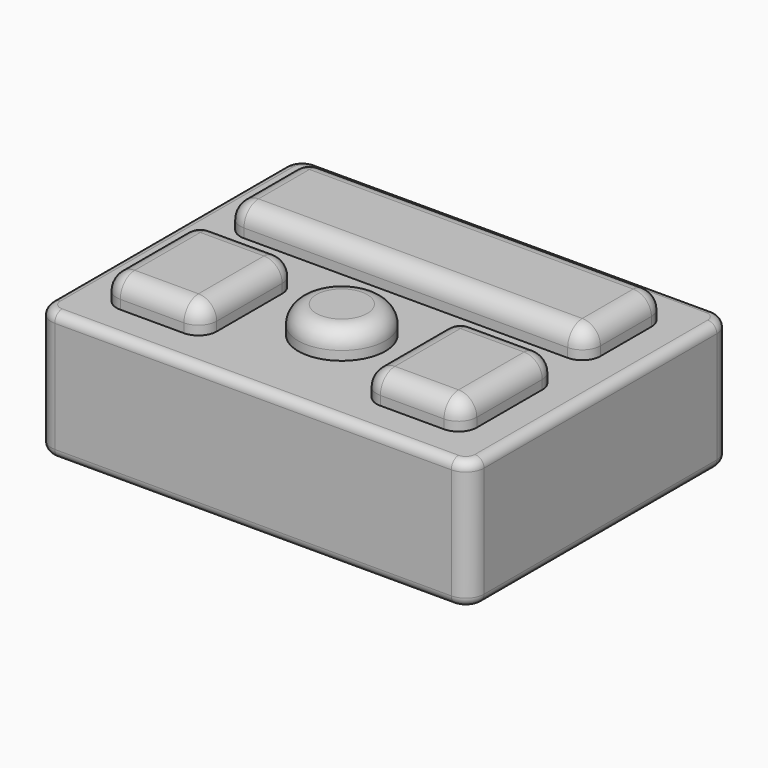
from build123d import *

# Parameters (mm, degrees)
F0_W     = 238
F0_H     = 180
F1_DEPTH = 86
F2_W     = 238
F2_H     = 180
F2_W_2   = 55
F2_H_2   = 65
F2_R     = 24
F2_W_3   = 198
F2_H_3   = 55
F3_DEPTH = 15
F4_R     = 10
F5_R     = 10
F6_R     = 5
F7_R     = 7.5
F8_DEPTH = 50


with BuildPart() as f1:
    # F0 (on Top) → F1 (new body)
    with BuildSketch(Plane.XY):
        Rectangle(F0_W, F0_H)
    extrude(amount=F1_DEPTH)

    # F2 (on face) → F3 (cut)
    with BuildSketch(Plane.XY.offset(86)):
        Rectangle(F2_W, F2_H)
        with Locations((-71.5, -37.5)):
            Rectangle(F2_W_2, F2_H_2, mode=Mode.SUBTRACT)
        with Locations((0, -29)):
            Circle(F2_R, mode=Mode.SUBTRACT)
        with Locations((71.5, -37.5)):
            Rectangle(F2_W_2, F2_H_2, mode=Mode.SUBTRACT)
        with Locations((0, 42.5)):
            Rectangle(F2_W_3, F2_H_3, mode=Mode.SUBTRACT)
    extrude(amount=-F3_DEPTH, mode=Mode.SUBTRACT)

    # F4
    f4_edges = [f1.edges().sort_by_distance(p)[0] for p in [
        (-119, -90, 35.5),
        (119, -90, 35.5),
        (-119, 90, 35.5),
        (119, 90, 35.5),
        (-99, 70, 78.5),
        (-99, -5, 78.5),
        (-99, -70, 78.5),
        (-44, -5, 78.5),
        (99, 70, 78.5),
        (99, -5, 78.5),
        (44, -5, 78.5),
        (44, -70, 78.5),
        (-99, 15, 78.5),
        (-44, -70, 78.5),
        (99, -70, 78.5),
        (99, 15, 78.5),
    ]]
    fillet(f4_edges, radius=F4_R)

    # F5
    f5_edges = [f1.edges().sort_by_distance(p)[0] for p in [
        (0, 15, 86),
        (-71.5, -5, 86),
        (-24, -29, 86),
        (71.5, -5, 86),
    ]]
    fillet(f5_edges, radius=F5_R)

    # F6
    f6_edges = [f1.edges().sort_by_distance(p)[0] for p in [
        (-119, 0, 71),
        (-119, 0, 0),
    ]]
    fillet(f6_edges, radius=F6_R)

    # F7 (on face) → F8 (cut)
    with BuildSketch(Plane(origin=(0, 0, 0), x_dir=(1, 0, 0), z_dir=(0, 0, -1))):
        Circle(F7_R)
    extrude(amount=-F8_DEPTH, mode=Mode.SUBTRACT)


solid = f1.part
